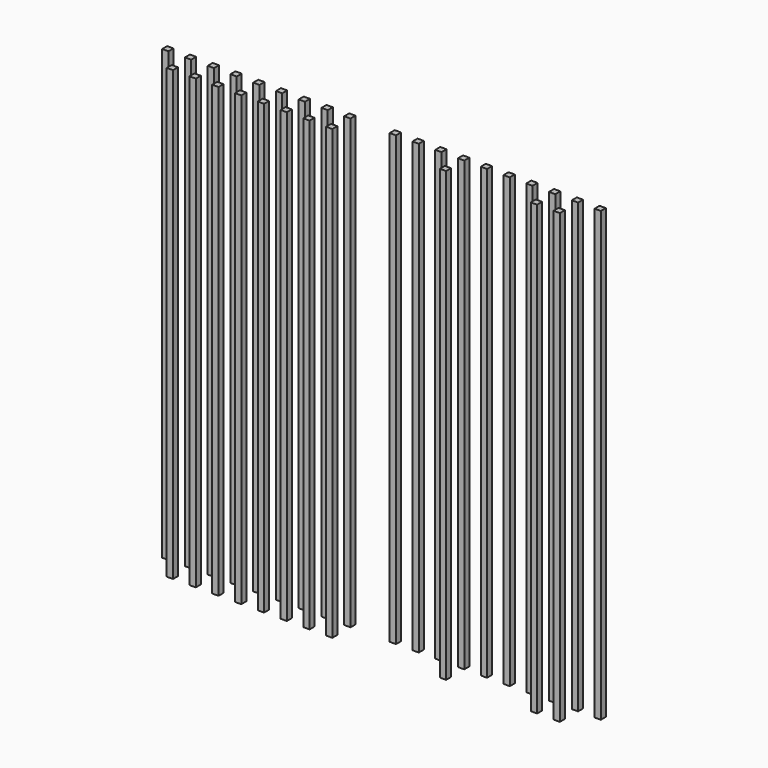
from build123d import *

# Parameters (mm, degrees)
BOX022_W         = 1
BOX022_H         = 1
BOX022_DEPTH     = 50
BOX021_W         = 1
BOX021_H         = 1
BOX021_DEPTH     = 50
BOX020_W         = 1
BOX020_H         = 1
BOX020_DEPTH     = 50
BOX019_W         = 1
BOX019_H         = 1
BOX019_DEPTH     = 50
BOX018_W         = 1
BOX018_H         = 1
BOX018_DEPTH     = 50
BOX017_W         = 1
BOX017_H         = 1
BOX017_DEPTH     = 50
BOX016_W         = 1
BOX016_H         = 1
BOX016_DEPTH     = 50
BOX015_W         = 1
BOX015_H         = 1
BOX015_DEPTH     = 50
BOX014_W         = 1
BOX014_H         = 1
BOX014_DEPTH     = 50
BOX011_W         = 1
BOX011_H         = 1
BOX011_DEPTH     = 50
BOX012_W         = 0.7
BOX012_H         = 0.7
BOX012_DEPTH     = 50
ARRAY001_X_COUNT = 20
ARRAY001_X_PITCH = 2.54
ARRAY001_Y_COUNT = 2
ARRAY001_Y_PITCH = 2.54


with BuildPart() as obj1:
    # Box022 → Box022 (new body)
    with BuildSketch(Plane(origin=(-1.77, 0.77, -3), x_dir=(1, 0, 0), z_dir=(0, 0, 1))):
        with Locations((0.5, 0.5)):
            Rectangle(BOX022_W, BOX022_H)
    extrude(amount=BOX022_DEPTH)


with BuildPart() as obj2:
    # Box021 → Box021 (new body)
    with BuildSketch(Plane(origin=(23.63, -1.77, -3), x_dir=(1, 0, 0), z_dir=(0, 0, 1))):
        with Locations((0.5, 0.5)):
            Rectangle(BOX021_W, BOX021_H)
    extrude(amount=BOX021_DEPTH)


with BuildPart() as obj3:
    # Box020 → Box020 (new body)
    with BuildSketch(Plane(origin=(16.01, -1.77, -3), x_dir=(1, 0, 0), z_dir=(0, 0, 1))):
        with Locations((0.5, 0.5)):
            Rectangle(BOX020_W, BOX020_H)
    extrude(amount=BOX020_DEPTH)


with BuildPart() as obj4:
    # Box019 → Box019 (new body)
    with BuildSketch(Plane(origin=(13.47, -1.77, -3), x_dir=(1, 0, 0), z_dir=(0, 0, 1))):
        with Locations((0.5, 0.5)):
            Rectangle(BOX019_W, BOX019_H)
    extrude(amount=BOX019_DEPTH)


with BuildPart() as obj5:
    # Box018 → Box018 (new body)
    with BuildSketch(Plane(origin=(10.93, -1.77, -3), x_dir=(1, 0, 0), z_dir=(0, 0, 1))):
        with Locations((0.5, 0.5)):
            Rectangle(BOX018_W, BOX018_H)
    extrude(amount=BOX018_DEPTH)


with BuildPart() as obj6:
    # Box017 → Box017 (new body)
    with BuildSketch(Plane(origin=(5.85, -1.77, -3), x_dir=(1, 0, 0), z_dir=(0, 0, 1))):
        with Locations((0.5, 0.5)):
            Rectangle(BOX017_W, BOX017_H)
    extrude(amount=BOX017_DEPTH)


with BuildPart() as obj7:
    # Box016 → Box016 (new body)
    with BuildSketch(Plane(origin=(3.31, -1.77, -3), x_dir=(1, 0, 0), z_dir=(0, 0, 1))):
        with Locations((0.5, 0.5)):
            Rectangle(BOX016_W, BOX016_H)
    extrude(amount=BOX016_DEPTH)


with BuildPart() as obj8:
    # Box015 → Box015 (new body)
    with BuildSketch(Plane(origin=(0.77, -1.77, -3), x_dir=(1, 0, 0), z_dir=(0, 0, 1))):
        with Locations((0.5, 0.5)):
            Rectangle(BOX015_W, BOX015_H)
    extrude(amount=BOX015_DEPTH)


with BuildPart() as obj9:
    # Box014 → Box014 (new body)
    with BuildSketch(Plane(origin=(-1.77, -1.77, -3), x_dir=(1, 0, 0), z_dir=(0, 0, 1))):
        with Locations((0.5, 0.5)):
            Rectangle(BOX014_W, BOX014_H)
    extrude(amount=BOX014_DEPTH)


with BuildPart() as obj10:
    # Box011 → Box011 (new body)
    with BuildSketch(Plane(origin=(-24.63, -1.77, -3), x_dir=(1, 0, 0), z_dir=(0, 0, 1))):
        with Locations((0.5, 0.5)):
            Rectangle(BOX011_W, BOX011_H)
    extrude(amount=BOX011_DEPTH)


with BuildPart() as obj11:
    # Box012 → Box012 (new body)
    with BuildSketch(Plane.XY):
        with Locations((0.35, 0.35)):
            Rectangle(BOX012_W, BOX012_H)
    extrude(amount=BOX012_DEPTH)

    # Array001 X: obj11 ×20


with BuildPart() as obj11_1:
    add(obj11.part)
    with Locations(*[(i * ARRAY001_X_PITCH, 0, 0) for i in range(1, ARRAY001_X_COUNT)]):
        add(obj11.part)

    # Array001 Y: obj11_2


with BuildPart() as obj11_2:
    add(obj11_1.part)
    with Locations(*[(0, i * ARRAY001_Y_PITCH, 0) for i in range(1, ARRAY001_Y_COUNT)]):
        add(obj11_1.part)


with BuildPart() as obj11_3:
    # Array001 placement: moved
    add(obj11_2.part.moved(Location((-24.48, -1.62, -3))))

    # Cut: cut obj10
    add(obj10.part, mode=Mode.SUBTRACT)

    # Cut001: cut obj9
    add(obj9.part, mode=Mode.SUBTRACT)

    # Cut002: cut obj8
    add(obj8.part, mode=Mode.SUBTRACT)

    # Cut003: cut obj7
    add(obj7.part, mode=Mode.SUBTRACT)

    # Cut004: cut obj6
    add(obj6.part, mode=Mode.SUBTRACT)

    # Cut005: cut obj5
    add(obj5.part, mode=Mode.SUBTRACT)

    # Cut006: cut obj4
    add(obj4.part, mode=Mode.SUBTRACT)

    # Cut007: cut obj3
    add(obj3.part, mode=Mode.SUBTRACT)

    # Cut008: cut obj2
    add(obj2.part, mode=Mode.SUBTRACT)

    # Cut009: cut obj1
    add(obj1.part, mode=Mode.SUBTRACT)


solid = obj11_3.part
